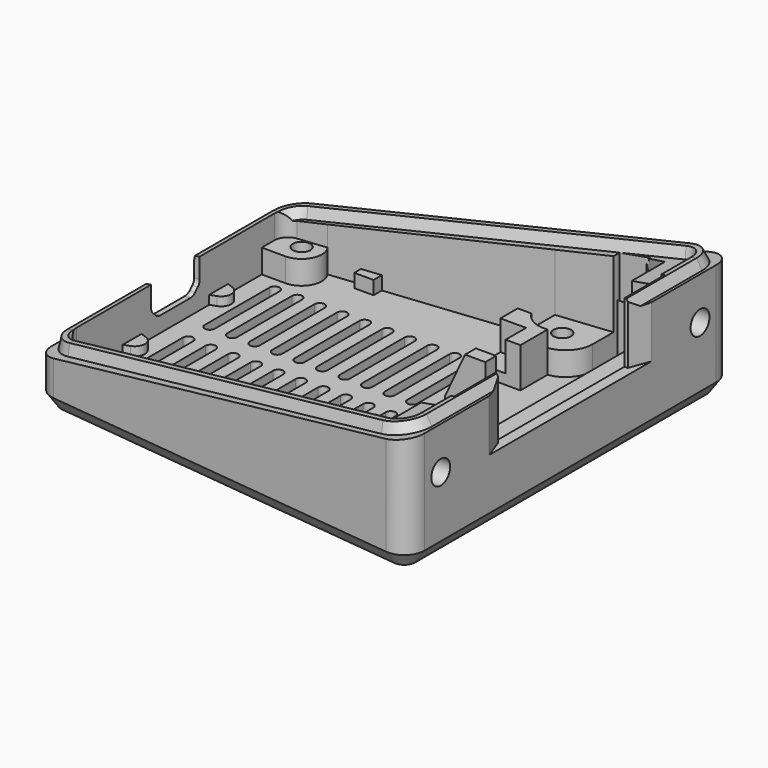
from build123d import *

# Parameters (mm, degrees)
PAD007_DEPTH                        = 12
PAD007_DEPTH_BACK                   = 8
POCKET_DEPTH                        = 30.001
POCKET_DEPTH_BACK                   = 30.001
SKETCH030_W                         = 6
SKETCH030_H                         = 39
POCKET007_DEPTH                     = 11.0834680529
SKETCH031_W                         = 5
SKETCH031_H                         = 30.25
POCKET008_DEPTH                     = 10.7834680529
SKETCH032_W                         = 2
SKETCH032_H                         = 19.15
POCKET009_DEPTH                     = 9.5834680529
POCKET013_DEPTH                     = 8.9834680529
POCKET015_DEPTH                     = 17.0834680529
SKETCH043_R                         = 1.75
POCKET016_DEPTH                     = 180.7284660949
SKETCH044_W                         = 6
SKETCH044_H                         = 7
PAD010_DEPTH                        = 6
SKETCH045_W                         = 4
SKETCH045_H                         = 4
POCKET017_DEPTH                     = 189.3109341478
PAD012_DEPTH                        = 2
POCKET031_DEPTH                     = 13.5834680529
POCKET037_DEPTH                     = 3
PAD018_DEPTH                        = 2
POCKET038_DEPTH                     = 5.001
POCKET039_DEPTH                     = 0.701
POCKET040_DEPTH                     = 181.7284660949
POCKET040_LINEARPATTERN004_2_DEPTH  = 181.7284660949
POCKET040_LINEARPATTERN004_3_DEPTH  = 181.7284660949
POCKET040_LINEARPATTERN004_4_DEPTH  = 181.7284660949
POCKET040_LINEARPATTERN004_5_DEPTH  = 181.7284660949
POCKET040_LINEARPATTERN004_6_DEPTH  = 181.7284660949
POCKET040_LINEARPATTERN004_7_DEPTH  = 181.7284660949
POCKET040_LINEARPATTERN004_8_DEPTH  = 181.7284660949
POCKET040_LINEARPATTERN004_9_DEPTH  = 181.7284660949
POCKET040_LINEARPATTERN004_10_DEPTH = 181.7284660949
PAD019_DEPTH                        = 1


with BuildPart() as part:
    # Sketch006 → Pad007 (new body, two sides)
    with BuildSketch(Plane.XY) as pad007_sk:
        with BuildLine():
            Line((26.6687054218, 29.981651204), (-27.3312945782, 23.981651204))
            ThreePointArc((-27.3312945782, 23.981651204), (-29.2353840537, 23.0007643871), (-30, 21))
            Line((-30, 21), (-30, -21))
            ThreePointArc((-30, -21), (-29.2353840537, -23.0007643871), (-27.3312945782, -23.981651204))
            Line((-27.3312945782, -23.981651204), (26.6687054218, -29.981651204))
            ThreePointArc((26.6687054218, -29.981651204), (29.0007643871, -29.2353840537), (30, -27))
            Line((30, -27), (30, 27))
            ThreePointArc((30, 27), (29.0007643871, 29.2353840537), (26.6687054218, 29.981651204))
        make_face()
    extrude(amount=PAD007_DEPTH)
    extrude(pad007_sk.sketch, amount=-PAD007_DEPTH_BACK)

    # Sketch019 → Pocket (cut, two sides)
    with BuildSketch(Plane.XZ) as pocket_sk:
        Polygon((31, 13), (-31, 13), (-31, -1.466136402), (31, 9.466136402), align=None)
    extrude(amount=-POCKET_DEPTH, mode=Mode.SUBTRACT)
    extrude(pocket_sk.sketch, amount=POCKET_DEPTH_BACK, mode=Mode.SUBTRACT)

    # AdditivePipe: sweep along a path in Sketch022
    with BuildLine(Plane(origin=(0, 0, 4), x_dir=(0.984807753, 0, 0.1736481777), z_dir=(-0.1736481777, 0, 0.984807753))) as additivepipe_path:
        Line((-26.343872324, 21.9802268076), (25.656127676, 27.9802268076))
        ThreePointArc((25.656127676, 27.9802268076), (27.996043966, 27.2396000728), (29, 25))
        Line((29, 25), (29, -25))
        ThreePointArc((29, -25), (27.996043966, -27.2396000728), (25.656127676, -27.9802268076))
        Line((25.656127676, -27.9802268076), (-26.343872324, -21.9802268076))
        ThreePointArc((-26.343872324, -21.9802268076), (-28.2396000728, -20.996043966), (-29, -19))
        Line((-29, -19), (-29, 19))
        ThreePointArc((-29, 19), (-28.2396000728, 20.996043966), (-26.343872324, 21.9802268076))
    # Sketch024 → AdditivePipe (sweep)
    with BuildSketch(Plane.XZ):
        Polygon((29.4910090014, 9.2000605753), (27.6278406733, 8.8715337294), (27.9050294696, 10.4435495108), (28.6928756721, 10.5824680529), align=None)
    sweep(path=additivepipe_path.line)

    # Sketch030 → Pocket007 (cut, through all)
    with BuildSketch(Plane.XY.offset(-0.5)):
        with Locations((25.4, 0)):
            Rectangle(SKETCH030_W, SKETCH030_H)
    extrude(amount=POCKET007_DEPTH, mode=Mode.SUBTRACT)

    # Sketch031 → Pocket008 (cut, through all)
    with BuildSketch(Plane.XY.offset(-0.2)):
        with Locations((25.9, 0)):
            Rectangle(SKETCH031_W, SKETCH031_H)
    extrude(amount=POCKET008_DEPTH, mode=Mode.SUBTRACT)

    # Sketch032 → Pocket009 (cut, through all)
    with BuildSketch(Plane.XY.offset(1)):
        with Locations((26, -9.575)):
            Rectangle(SKETCH032_W, SKETCH032_H)
    extrude(amount=POCKET009_DEPTH, mode=Mode.SUBTRACT)

    # SubtractivePipe001: sweep along a path in Sketch006
    with BuildLine(Plane.XY) as subtractivepipe001_path:
        Line((26.6687054218, 29.981651204), (-27.3312945782, 23.981651204))
        ThreePointArc((-27.3312945782, 23.981651204), (-29.2353840537, 23.0007643871), (-30, 21))
        Line((-30, 21), (-30, -21))
        ThreePointArc((-30, -21), (-29.2353840537, -23.0007643871), (-27.3312945782, -23.981651204))
        Line((-27.3312945782, -23.981651204), (26.6687054218, -29.981651204))
        ThreePointArc((26.6687054218, -29.981651204), (29.0007643871, -29.2353840537), (30, -27))
        Line((30, -27), (30, 27))
        ThreePointArc((30, 27), (29.0007643871, 29.2353840537), (26.6687054218, 29.981651204))
    # Sketch034 → SubtractivePipe001 (sweep, cut)
    with BuildSketch(Plane.XZ):
        Polygon((28.5995849236, -8), (30, -8), (30, -6), align=None)
    sweep(path=subtractivepipe001_path.line, mode=Mode.SUBTRACT)

    # Sketch038 → Pocket013 (cut, through all)
    with BuildSketch(Plane.XY.offset(1.6)):
        Polygon((27.9, 12), (28.9, 12), (32, 20.5171800003), (32, -20.5171800003), (28.9, -12), (27.9, -12), align=None)
    extrude(amount=POCKET013_DEPTH, mode=Mode.SUBTRACT)

    # Sketch041 → Pocket015 (cut, through all)
    with BuildSketch(Plane.XY.offset(-6.5)):
        with BuildLine():
            Line((-28.5, 16), (-28.5, -16))
            Line((-28.5, -16), (-25, -16))
            ThreePointArc((-22.5667751915, -20.754826781), (-22.329374573, -17.6333399002), (-25, -16))
            Line((-22.5667751915, -20.754826781), (8.5, -24.0200764297))
            Line((8.5, -24.0200764297), (8.5, -21))
            ThreePointArc((16.5, -21), (12.5, -17), (8.5, -21))
            Line((16.5, -26), (16.5, -21))
            Line((21, -26), (16.5, -26))
            Line((21, -20), (21, -26))
            Line((23.5, -20), (21, -20))
            Line((23.5, -20), (23.5, 20))
            Line((23.5, 20), (21, 20))
            Line((21, 20), (21, 26))
            Line((16.5, 26), (21, 26))
            Line((16.5, 21), (16.5, 26))
            ThreePointArc((8.5, 21), (12.5, 17), (16.5, 21))
            Line((8.5, 21), (8.5, 24.0200764297))
            Line((-22.5667751915, 20.754826781), (8.5, 24.0200764297))
            ThreePointArc((-25, 16), (-22.329374573, 17.6333399002), (-22.5667751915, 20.754826781))
            Line((-25, 16), (-28.5, 16))
        make_face()
    extrude(amount=POCKET015_DEPTH, mode=Mode.SUBTRACT)

    # Sketch043 → Pocket016 (cut, through all)
    with BuildSketch(Plane.YZ.offset(23)):
        with Locations((24, 3)):
            Circle(SKETCH043_R)
    pocket016 = extrude(amount=POCKET016_DEPTH, mode=Mode.SUBTRACT)

    # Mirrored003: Pocket016 across XZ
    add(pocket016.mirror(Plane.XZ), mode=Mode.SUBTRACT)

    # Sketch044 → Pad010 (join)
    with BuildSketch(Plane.XY.offset(-6.6)):
        with Locations((10, 15.5)):
            Rectangle(SKETCH044_W, SKETCH044_H)
    pad010 = extrude(amount=PAD010_DEPTH)

    # Sketch045 → Pocket017 (cut, through all)
    with BuildSketch(Plane.XY.offset(-5)):
        with Locations((8.8, 13.8)):
            Rectangle(SKETCH045_W, SKETCH045_H)
    pocket017 = extrude(amount=POCKET017_DEPTH, mode=Mode.SUBTRACT)

    # Mirrored004: Pad010, Pocket017 across XZ
    add(pad010.mirror(Plane.XZ))
    add(pocket017.mirror(Plane.XZ), mode=Mode.SUBTRACT)

    # Sketch049 → Pad012 (join)
    with BuildSketch(Plane.XY.offset(-6.5)):
        Polygon((-18, 21.4359158511), (-18, 20), (-15.15, 20), (-15.15, 21.7354629216), align=None)
    pad012 = extrude(amount=PAD012_DEPTH)

    # Mirrored005: Pad012 across XZ
    add(pad012.mirror(Plane.XZ))

    # Sketch028 → Groove002 (revolve, cut)
    with BuildSketch(Plane.XZ.offset(19)):
        Polygon((-25, 6), (-23.7, 6), (-23.7, -6), (-22.7, -7), (-22.7, -9), (-25, -9), align=None)
    groove002 = revolve(axis=Axis((-25, -19, 18), (0, 0, -1)), mode=Mode.SUBTRACT)

    # Sketch061 → Groove003 (revolve, cut)
    with BuildSketch(Plane.XZ.offset(21)):
        Polygon((12, 12), (13.3, 12), (13.3, -6), (14.3, -7), (14.3, -9), (12, -9), align=None)
    groove003 = revolve(axis=Axis((12, -21, 30), (0, 0, -1)), mode=Mode.SUBTRACT)

    # Mirrored012: Groove002, Groove003 across XZ
    add(groove002.mirror(Plane.XZ), mode=Mode.SUBTRACT)
    add(groove003.mirror(Plane.XZ), mode=Mode.SUBTRACT)

    # Sketch062 → Pocket031 (cut, through all)
    with BuildSketch(Plane.XY.offset(-3)):
        with BuildLine():
            Line((16.5, 21), (16.5, 24.8609103118))
            Line((16.5, 24.8609103118), (8.5, 24.0200764297))
            Line((8.5, 21), (8.5, 24.0200764297))
            ThreePointArc((8.5, 21), (12.5, 17), (16.5, 21))
        make_face()
        with BuildLine():
            Line((8.5, -24.0200764297), (16.5, -24.8609103118))
            Line((16.5, -24.8609103118), (16.5, -21))
            ThreePointArc((16.5, -21), (12.5, -17), (8.5, -21))
            Line((8.5, -24.0200764297), (8.5, -21))
        make_face()
        with BuildLine():
            ThreePointArc((-25, 16), (-22.329374573, 17.6333399002), (-22.5667751915, 20.754826781))
            Line((-22.5667751915, 20.754826781), (-26.7090569265, 20.319455427))
            ThreePointArc((-26.7090569265, 20.319455427), (-27.986289651, 19.668672849), (-28.5, 18.3304116363))
            Line((-28.5, 16), (-28.5, 18.3304116363))
            Line((-25, 16), (-28.5, 16))
        make_face()
        with BuildLine():
            ThreePointArc((-22.5667751915, -20.754826781), (-22.329374573, -17.6333399002), (-25, -16))
            Line((-28.5, -16), (-25, -16))
            Line((-28.5, -18.3304116363), (-28.5, -16))
            ThreePointArc((-28.5, -18.3304116363), (-27.986289651, -19.668672849), (-26.7090569265, -20.319455427))
            Line((-22.5667751915, -20.754826781), (-26.7090569265, -20.319455427))
        make_face()
    extrude(amount=POCKET031_DEPTH, mode=Mode.SUBTRACT)

    # Sketch056 → Pocket037 (cut)
    with BuildSketch(Plane.YZ.offset(23.5)):
        Polygon((27.2345297078, 2.1333103769), (24.8587073837, 11), (13.6321599153, 11), (20.7654702922, 3.8666896231), (21.6321599153, 0.6321599153), (24.8666896231, -0.2345297078), align=None)
    pocket037 = extrude(amount=-POCKET037_DEPTH, mode=Mode.SUBTRACT)

    # Mirrored015: Pocket037 across XZ
    add(pocket037.mirror(Plane.XZ), mode=Mode.SUBTRACT)

    # Sketch055 → Pad018 (join)
    with BuildSketch(Plane.XY.offset(-5.2)):
        with BuildLine():
            ThreePointArc((-27.586969785, 6.5904610688), (-26.6, 8), (-27.586969785, 9.4095389312))
            Line((-27.586969785, 9.4095389312), (-28.6, 9.7782517758))
            Line((-28.6, 9.7782517758), (-28.6, 6.2217482242))
            Line((-28.6, 6.2217482242), (-27.586969785, 6.5904610688))
        make_face()
    pad018 = extrude(amount=-PAD018_DEPTH)

    # Mirrored016: Pad018 across XZ
    add(pad018.mirror(Plane.XZ))

    # Sketch051 → Pocket038 (cut, through all)
    with BuildSketch(Plane.YZ.offset(-25)):
        with BuildLine():
            ThreePointArc((-4.5, -2.5), (-4.408655439, -2.9592201189), (-4.1485281374, -3.3485281374))
            Line((-4.1485281374, -3.3485281374), (-3.6485281374, -3.8485281374))
            ThreePointArc((-3.6485281374, -3.8485281374), (-3.2592201188, -4.108655439), (-2.8, -4.2))
            Line((2.8, -4.2), (-2.8, -4.2))
            ThreePointArc((2.8, -4.2), (3.2592201188, -4.108655439), (3.6485281374, -3.8485281374))
            Line((4.1485281374, -3.3485281374), (3.6485281374, -3.8485281374))
            ThreePointArc((4.1485281374, -3.3485281374), (4.408655439, -2.9592201189), (4.5, -2.5))
            Line((4.5, -2.5), (4.5, 6))
            Line((4.5, 6), (-4.5, 6))
            Line((-4.5, 6), (-4.5, -2.5))
        make_face()
    extrude(amount=-POCKET038_DEPTH, mode=Mode.SUBTRACT)

    # Sketch053 → Pocket039 (cut, through all)
    with BuildSketch(Plane.YZ.offset(-29.3)):
        with BuildLine():
            Line((-4, 2), (4, 2))
            ThreePointArc((7, -1), (6.1213203436, 1.1213203436), (4, 2))
            Line((7, -1), (7, -3))
            ThreePointArc((4, -6), (6.1213203436, -5.1213203436), (7, -3))
            Line((4, -6), (-4, -6))
            ThreePointArc((-7, -3), (-6.1213203436, -5.1213203436), (-4, -6))
            Line((-7, -3), (-7, -1))
            ThreePointArc((-4, 2), (-6.1213203436, 1.1213203436), (-7, -1))
        make_face()
    extrude(amount=-POCKET039_DEPTH, mode=Mode.SUBTRACT)

    # Sketch052 → Pocket040 (cut, through all)
    with BuildSketch(Plane.XY):
        with BuildLine():
            ThreePointArc((-24.25, -2), (-25, -1.25), (-25.75, -2))
            Line((-25.75, -2), (-25.75, -14))
            ThreePointArc((-25.75, -14), (-25, -14.75), (-24.25, -14))
            Line((-24.25, -2), (-24.25, -14))
        make_face()
    pocket040 = extrude(amount=-POCKET040_DEPTH, mode=Mode.SUBTRACT)

    # Sketch052 LinearPattern004 2 → Pocket040 LinearPattern004 2 (cut, through all)
    with BuildSketch(Plane(origin=(3.3333333333, 0, 0), x_dir=(1, 0, 0), z_dir=(0, 0, 1))):
        with BuildLine():
            ThreePointArc((-24.25, -2), (-25, -1.25), (-25.75, -2))
            Line((-25.75, -2), (-25.75, -14))
            ThreePointArc((-25.75, -14), (-25, -14.75), (-24.25, -14))
            Line((-24.25, -2), (-24.25, -14))
        make_face()
    pocket040_linearpattern004_2 = extrude(amount=-POCKET040_LINEARPATTERN004_2_DEPTH, mode=Mode.SUBTRACT)

    # Sketch052 LinearPattern004 3 → Pocket040 LinearPattern004 3 (cut, through all)
    with BuildSketch(Plane(origin=(6.6666666667, 0, 0), x_dir=(1, 0, 0), z_dir=(0, 0, 1))):
        with BuildLine():
            ThreePointArc((-24.25, -2), (-25, -1.25), (-25.75, -2))
            Line((-25.75, -2), (-25.75, -14))
            ThreePointArc((-25.75, -14), (-25, -14.75), (-24.25, -14))
            Line((-24.25, -2), (-24.25, -14))
        make_face()
    pocket040_linearpattern004_3 = extrude(amount=-POCKET040_LINEARPATTERN004_3_DEPTH, mode=Mode.SUBTRACT)

    # Sketch052 LinearPattern004 4 → Pocket040 LinearPattern004 4 (cut, through all)
    with BuildSketch(Plane(origin=(10, 0, 0), x_dir=(1, 0, 0), z_dir=(0, 0, 1))):
        with BuildLine():
            ThreePointArc((-24.25, -2), (-25, -1.25), (-25.75, -2))
            Line((-25.75, -2), (-25.75, -14))
            ThreePointArc((-25.75, -14), (-25, -14.75), (-24.25, -14))
            Line((-24.25, -2), (-24.25, -14))
        make_face()
    pocket040_linearpattern004_4 = extrude(amount=-POCKET040_LINEARPATTERN004_4_DEPTH, mode=Mode.SUBTRACT)

    # Sketch052 LinearPattern004 5 → Pocket040 LinearPattern004 5 (cut, through all)
    with BuildSketch(Plane(origin=(13.3333333333, 0, 0), x_dir=(1, 0, 0), z_dir=(0, 0, 1))):
        with BuildLine():
            ThreePointArc((-24.25, -2), (-25, -1.25), (-25.75, -2))
            Line((-25.75, -2), (-25.75, -14))
            ThreePointArc((-25.75, -14), (-25, -14.75), (-24.25, -14))
            Line((-24.25, -2), (-24.25, -14))
        make_face()
    pocket040_linearpattern004_5 = extrude(amount=-POCKET040_LINEARPATTERN004_5_DEPTH, mode=Mode.SUBTRACT)

    # Sketch052 LinearPattern004 6 → Pocket040 LinearPattern004 6 (cut, through all)
    with BuildSketch(Plane(origin=(16.6666666667, 0, 0), x_dir=(1, 0, 0), z_dir=(0, 0, 1))):
        with BuildLine():
            ThreePointArc((-24.25, -2), (-25, -1.25), (-25.75, -2))
            Line((-25.75, -2), (-25.75, -14))
            ThreePointArc((-25.75, -14), (-25, -14.75), (-24.25, -14))
            Line((-24.25, -2), (-24.25, -14))
        make_face()
    pocket040_linearpattern004_6 = extrude(amount=-POCKET040_LINEARPATTERN004_6_DEPTH, mode=Mode.SUBTRACT)

    # Sketch052 LinearPattern004 7 → Pocket040 LinearPattern004 7 (cut, through all)
    with BuildSketch(Plane(origin=(20, 0, 0), x_dir=(1, 0, 0), z_dir=(0, 0, 1))):
        with BuildLine():
            ThreePointArc((-24.25, -2), (-25, -1.25), (-25.75, -2))
            Line((-25.75, -2), (-25.75, -14))
            ThreePointArc((-25.75, -14), (-25, -14.75), (-24.25, -14))
            Line((-24.25, -2), (-24.25, -14))
        make_face()
    pocket040_linearpattern004_7 = extrude(amount=-POCKET040_LINEARPATTERN004_7_DEPTH, mode=Mode.SUBTRACT)

    # Sketch052 LinearPattern004 8 → Pocket040 LinearPattern004 8 (cut, through all)
    with BuildSketch(Plane(origin=(23.3333333333, 0, 0), x_dir=(1, 0, 0), z_dir=(0, 0, 1))):
        with BuildLine():
            ThreePointArc((-24.25, -2), (-25, -1.25), (-25.75, -2))
            Line((-25.75, -2), (-25.75, -14))
            ThreePointArc((-25.75, -14), (-25, -14.75), (-24.25, -14))
            Line((-24.25, -2), (-24.25, -14))
        make_face()
    pocket040_linearpattern004_8 = extrude(amount=-POCKET040_LINEARPATTERN004_8_DEPTH, mode=Mode.SUBTRACT)

    # Sketch052 LinearPattern004 9 → Pocket040 LinearPattern004 9 (cut, through all)
    with BuildSketch(Plane(origin=(26.6666666667, 0, 0), x_dir=(1, 0, 0), z_dir=(0, 0, 1))):
        with BuildLine():
            ThreePointArc((-24.25, -2), (-25, -1.25), (-25.75, -2))
            Line((-25.75, -2), (-25.75, -14))
            ThreePointArc((-25.75, -14), (-25, -14.75), (-24.25, -14))
            Line((-24.25, -2), (-24.25, -14))
        make_face()
    pocket040_linearpattern004_9 = extrude(amount=-POCKET040_LINEARPATTERN004_9_DEPTH, mode=Mode.SUBTRACT)

    # Sketch052 LinearPattern004 10 → Pocket040 LinearPattern004 10 (cut, through all)
    with BuildSketch(Plane(origin=(30, 0, 0), x_dir=(1, 0, 0), z_dir=(0, 0, 1))):
        with BuildLine():
            ThreePointArc((-24.25, -2), (-25, -1.25), (-25.75, -2))
            Line((-25.75, -2), (-25.75, -14))
            ThreePointArc((-25.75, -14), (-25, -14.75), (-24.25, -14))
            Line((-24.25, -2), (-24.25, -14))
        make_face()
    pocket040_linearpattern004_10 = extrude(amount=-POCKET040_LINEARPATTERN004_10_DEPTH, mode=Mode.SUBTRACT)

    # Mirrored017: Pocket040, Pocket040 LinearPattern004 2, Pocket040 LinearPattern004 3, Pocket040 LinearPattern004 4, Pocket040 LinearPattern004 5, Pocket040 LinearPattern004 6, Pocket040 LinearPattern004 7, Pocket040 LinearPattern004 8, Pocket040 LinearPattern004 9, Pocket040 LinearPattern004 10 across XZ
    add(pocket040.mirror(Plane.XZ), mode=Mode.SUBTRACT)
    add(pocket040_linearpattern004_2.mirror(Plane.XZ), mode=Mode.SUBTRACT)
    add(pocket040_linearpattern004_3.mirror(Plane.XZ), mode=Mode.SUBTRACT)
    add(pocket040_linearpattern004_4.mirror(Plane.XZ), mode=Mode.SUBTRACT)
    add(pocket040_linearpattern004_5.mirror(Plane.XZ), mode=Mode.SUBTRACT)
    add(pocket040_linearpattern004_6.mirror(Plane.XZ), mode=Mode.SUBTRACT)
    add(pocket040_linearpattern004_7.mirror(Plane.XZ), mode=Mode.SUBTRACT)
    add(pocket040_linearpattern004_8.mirror(Plane.XZ), mode=Mode.SUBTRACT)
    add(pocket040_linearpattern004_9.mirror(Plane.XZ), mode=Mode.SUBTRACT)
    add(pocket040_linearpattern004_10.mirror(Plane.XZ), mode=Mode.SUBTRACT)

    # Sketch065 → Pad019 (join, symmetric)
    with BuildSketch(Plane.XZ.offset(8)):
        Polygon((24.6, 9.5), (21.6, 9.5), (18.6, 3.0664792385), (18.6, -6.5), (24.6, -6.5), align=None)
    extrude(amount=PAD019_DEPTH, both=True)


solid = part.part
